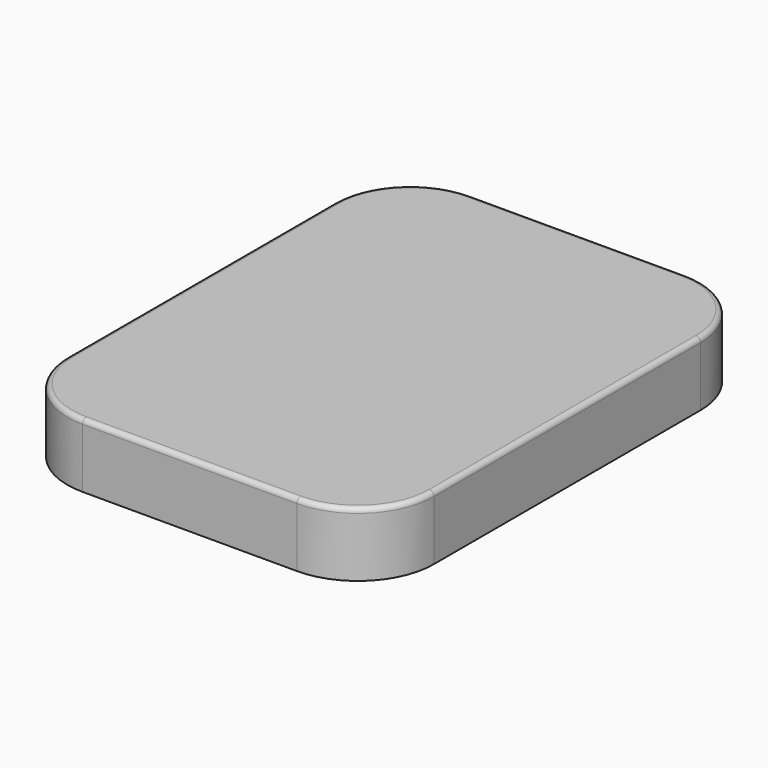
from build123d import *

# Parameters (mm, degrees)
BOX036_W       = 150.2
BOX036_H       = 200.2
BOX036_DEPTH   = 25
FILLET022_R    = 30
FILLET023_R    = 30
FILLET024_R    = 30
FILLET025_R    = 30
THICKNESS001_T = 2


with BuildPart() as part:
    # Box036 → Box036 (new body)
    with BuildSketch(Plane.XY):
        with Locations((75.1, 100.1)):
            Rectangle(BOX036_W, BOX036_H)
    extrude(amount=BOX036_DEPTH)

    # Fillet022
    fillet022_edges = [part.edges().sort_by_distance(p)[0] for p in [
        (150.2, 0, 12.5),
    ]]
    fillet(fillet022_edges, radius=FILLET022_R)

    # Fillet023
    fillet023_edges = [part.edges().sort_by_distance(p)[0] for p in [
        (150.2, 200.2, 12.5),
    ]]
    fillet(fillet023_edges, radius=FILLET023_R)

    # Fillet024
    fillet024_edges = [part.edges().sort_by_distance(p)[0] for p in [
        (0, 0, 12.5),
    ]]
    fillet(fillet024_edges, radius=FILLET024_R)

    # Fillet025
    fillet025_edges = [part.edges().sort_by_distance(p)[0] for p in [
        (0, 200.2, 12.5),
    ]]
    fillet(fillet025_edges, radius=FILLET025_R)

    # Thickness001
    thickness001_openings = [part.faces().sort_by_distance(p)[0] for p in [
        (75.1, 100.1, 0),
    ]]
    offset(amount=THICKNESS001_T, openings=thickness001_openings)


with BuildPart() as part_1:
    # Thickness001 placement: moved
    add(part.part.moved(Location((0, 300, 400))))


solid = part_1.part
